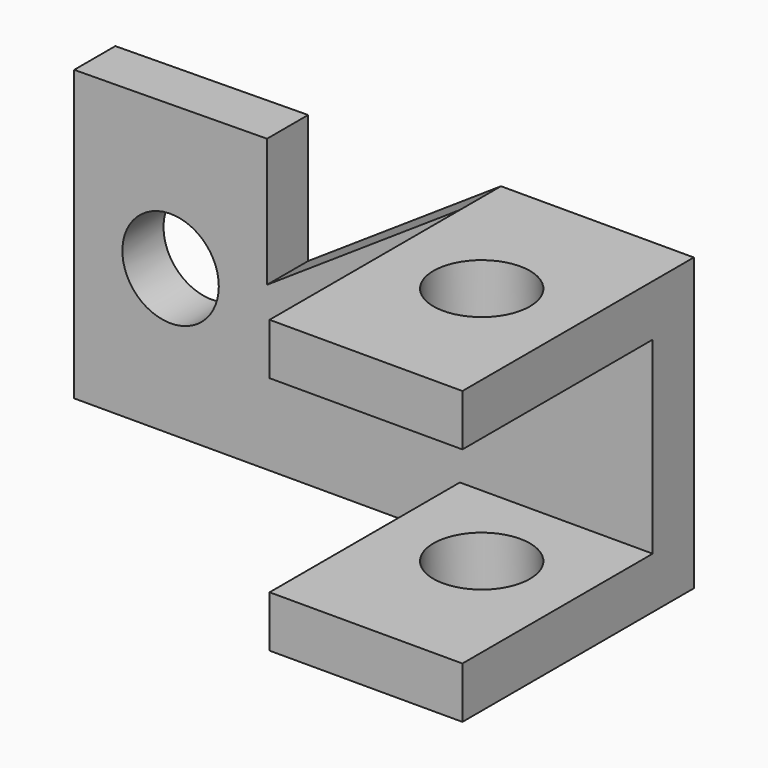
from build123d import *

# Parameters (mm, degrees)
F1_DEPTH = 8
F2_W     = 30
F2_H     = 8
F3_DEPTH = 37
F4_W     = 30.001698
F4_H     = 8
F5_DEPTH = 37
F6_R     = 7.5
F7_DEPTH = 81.026
F8_R     = 7.5
F9_DEPTH = 57.15


with BuildPart() as f1:
    # F0 (on Front) → F1 (new body)
    with BuildSketch(Plane.XZ):
        Polygon((-26.677133, 36.321553), (-56.675435, 36.002424), (-56.675435, -8.997576), (33.324565, -8.997576), (33.324565, 36.321553), (3.322867, 36.321553), (-26.677133, 16.321553), align=None)
    extrude(amount=F1_DEPTH)

    # F2 (on face) → F3 (join)
    with BuildSketch(Plane.XZ.offset(8)):
        with Locations((18.324565, -4.997576)):
            Rectangle(F2_W, F2_H)
    extrude(amount=F3_DEPTH)

    # F4 (on face) → F5 (join)
    with BuildSketch(Plane.XZ.offset(8)):
        with Locations((18.323716, 32.321553)):
            Rectangle(F4_W, F4_H)
    extrude(amount=F5_DEPTH)

    # F6 (on face) → F7 (cut)
    with BuildSketch(Plane.XY.offset(36.321553)):
        with Locations((18.322867, -22.5)):
            Circle(F6_R)
    extrude(amount=-F7_DEPTH, mode=Mode.SUBTRACT)

    # F8 (on face) → F9 (cut)
    with BuildSketch(Plane.XZ.offset(8)):
        with Locations((-41.675435, 13.661989)):
            Circle(F8_R)
    extrude(amount=-F9_DEPTH, mode=Mode.SUBTRACT)


solid = f1.part
